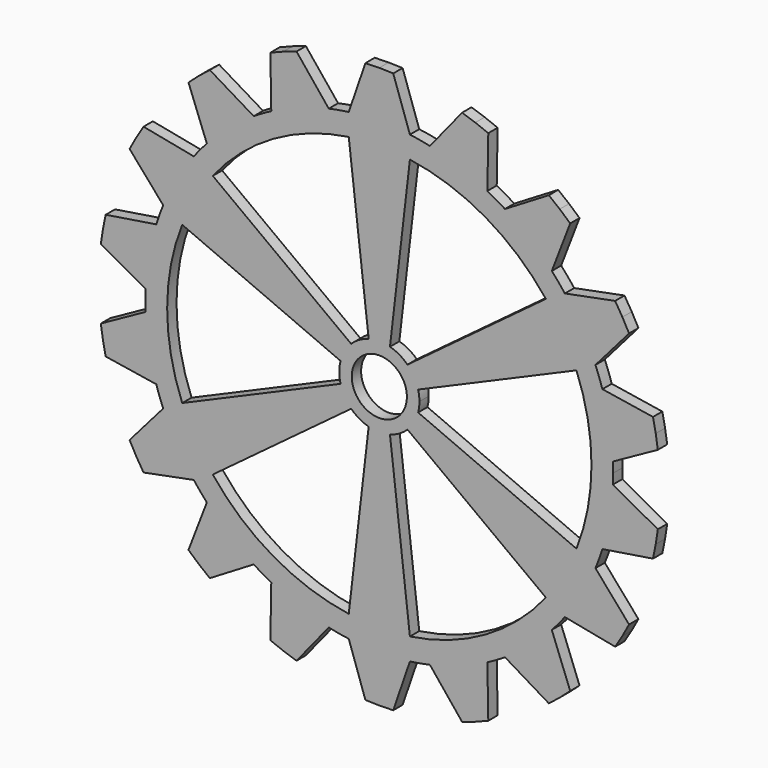
from build123d import *

# Parameters (mm, degrees)
F0_R     = 7.485066
F1_DEPTH = 3.175


with BuildPart() as f1:
    # F0 (on Front) → F1 (new body)
    with BuildSketch(Plane.XZ):
        with BuildLine():
            ThreePointArc((63.440218, -2.754768), (63.485053, -1.377708), (63.5, 0))
            ThreePointArc((63.5, 0), (63.485053, 1.377708), (63.440218, 2.754768))
            ThreePointArc((63.440218, 2.754768), (62.535292, 11.026659), (60.556491, 19.109197))
            ThreePointArc((60.556491, 19.109197), (59.670481, 21.718279), (58.672119, 24.286468))
            ThreePointArc((58.672119, 24.286468), (54.992613, 31.75), (50.368757, 38.668311))
            ThreePointArc((50.368757, 38.668311), (48.643822, 40.817013), (46.827296, 42.888861))
            ThreePointArc((46.827296, 42.888861), (40.817013, 48.643822), (34.105808, 53.563456))
            ThreePointArc((34.105808, 53.563456), (31.75, 54.992613), (29.33441, 56.318224))
            ThreePointArc((29.33441, 56.318224), (21.718279, 59.670481), (13.729195, 61.998058))
            ThreePointArc((13.729195, 61.998058), (11.026659, 62.535292), (8.303361, 62.954779))
            ThreePointArc((8.303361, 62.954779), (0, 63.5), (-8.303361, 62.954779))
            ThreePointArc((-8.303361, 62.954779), (-11.026659, 62.535292), (-13.729195, 61.998058))
            ThreePointArc((-13.729195, 61.998058), (-21.718279, 59.670481), (-29.33441, 56.318224))
            ThreePointArc((-29.33441, 56.318224), (-31.75, 54.992613), (-34.105808, 53.563456))
            ThreePointArc((-34.105808, 53.563456), (-40.817013, 48.643822), (-46.827296, 42.888861))
            ThreePointArc((-46.827296, 42.888861), (-48.643822, 40.817013), (-50.368757, 38.668311))
            ThreePointArc((-50.368757, 38.668311), (-54.992613, 31.75), (-58.672119, 24.286468))
            ThreePointArc((-58.672119, 24.286468), (-59.670481, 21.718279), (-60.556491, 19.109197))
            ThreePointArc((-60.556491, 19.109197), (-62.535292, 11.026659), (-63.440218, 2.754768))
            ThreePointArc((-63.440218, 2.754768), (-63.5, 0), (-63.440218, -2.754768))
            ThreePointArc((-63.440218, -2.754768), (-62.535292, -11.026659), (-60.556491, -19.109197))
            ThreePointArc((-60.556491, -19.109197), (-59.670481, -21.718279), (-58.672119, -24.286468))
            ThreePointArc((-58.672119, -24.286468), (-54.992613, -31.75), (-50.368757, -38.668311))
            ThreePointArc((-50.368757, -38.668311), (-48.643822, -40.817013), (-46.827296, -42.888861))
            ThreePointArc((-46.827296, -42.888861), (-40.817013, -48.643822), (-34.105808, -53.563456))
            ThreePointArc((-34.105808, -53.563456), (-31.75, -54.992613), (-29.33441, -56.318224))
            ThreePointArc((-29.33441, -56.318224), (-21.718279, -59.670481), (-13.729195, -61.998058))
            ThreePointArc((-13.729195, -61.998058), (-11.026659, -62.535292), (-8.303361, -62.954779))
            ThreePointArc((-8.303361, -62.954779), (0, -63.5), (8.303361, -62.954779))
            ThreePointArc((8.303361, -62.954779), (11.026659, -62.535292), (13.729195, -61.998058))
            ThreePointArc((13.729195, -61.998058), (21.718279, -59.670481), (29.33441, -56.318224))
            ThreePointArc((29.33441, -56.318224), (31.75, -54.992613), (34.105808, -53.563456))
            ThreePointArc((34.105808, -53.563456), (40.817013, -48.643822), (46.827296, -42.888861))
            ThreePointArc((46.827296, -42.888861), (48.643822, -40.817013), (50.368757, -38.668311))
            ThreePointArc((50.368757, -38.668311), (54.992613, -31.75), (58.672119, -24.286468))
            ThreePointArc((58.672119, -24.286468), (59.670481, -21.718279), (60.556491, -19.109197))
            ThreePointArc((60.556491, -19.109197), (62.535292, -11.026659), (63.440218, -2.754768))
        make_face()
        with BuildLine():
            ThreePointArc((45.211563, 35.690804), (49.884258, 28.80069), (53.514925, 21.30896))
            ThreePointArc((53.514925, 21.30896), (56.570542, 10.848628), (57.60138, 0))
            ThreePointArc((57.60138, 0), (56.570542, -10.848628), (53.514925, -21.30896))
            ThreePointArc((53.514925, -21.30896), (49.884258, -28.80069), (45.211563, -35.690804))
            ThreePointArc((45.211563, -35.690804), (28.80069, -49.884258), (8.303361, -56.999765))
            ThreePointArc((8.303361, -56.999765), (0, -57.60138), (-8.303361, -56.999765))
            ThreePointArc((-8.303361, -56.999765), (-28.80069, -49.884258), (-45.211563, -35.690804))
            ThreePointArc((-45.211563, -35.690804), (-49.884258, -28.80069), (-53.514925, -21.30896))
            ThreePointArc((-53.514925, -21.30896), (-57.60138, 0), (-53.514925, 21.30896))
            ThreePointArc((-53.514925, 21.30896), (-49.884258, 28.80069), (-45.211563, 35.690804))
            ThreePointArc((-45.211563, 35.690804), (-28.80069, 49.884258), (-8.303361, 56.999765))
            ThreePointArc((-8.303361, 56.999765), (0, 57.60138), (8.303361, 56.999765))
            ThreePointArc((8.303361, 56.999765), (28.80069, 49.884258), (45.211563, 35.690804))
        make_face(mode=Mode.SUBTRACT)
        with BuildLine():
            ThreePointArc((60.556491, 19.109197), (62.535292, 11.026659), (63.440218, 2.754768))
            Line((63.440218, 2.754768), (75.606443, 9.492404))
            Line((75.606443, 9.492404), (75.042351, 13.231991))
            Line((75.042351, 13.231991), (74.29341, 16.938985))
            Line((74.29341, 16.938985), (60.556491, 19.109197))
        make_face()
        with BuildLine():
            Line((75.606443, -9.492404), (63.440218, -2.754768))
            ThreePointArc((63.440218, -2.754768), (62.535292, -11.026659), (60.556491, -19.109197))
            Line((60.556491, -19.109197), (74.29341, -16.938985))
            Line((74.29341, -16.938985), (75.042351, -13.231991))
            Line((75.042351, -13.231991), (75.606443, -9.492404))
        make_face()
        with BuildLine():
            ThreePointArc((50.368757, 38.668311), (54.992613, 31.75), (58.672119, 24.286468))
            Line((58.672119, 24.286468), (67.800224, 34.778868))
            Line((67.800224, 34.778868), (65.991136, 38.1))
            Line((65.991136, 38.1), (64.019495, 41.327282))
            Line((64.019495, 41.327282), (50.368757, 38.668311))
        make_face()
        with BuildLine():
            Line((67.800224, -34.778868), (58.672119, -24.286468))
            ThreePointArc((58.672119, -24.286468), (54.992613, -31.75), (50.368757, -38.668311))
            Line((50.368757, -38.668311), (64.019495, -41.327282))
            Line((64.019495, -41.327282), (65.991136, -38.1))
            Line((65.991136, -38.1), (67.800224, -34.778868))
        make_face()
        with BuildLine():
            ThreePointArc((34.105808, 53.563456), (40.817013, 48.643822), (46.827296, 42.888861))
            Line((46.827296, 42.888861), (51.816296, 55.870488))
            Line((51.816296, 55.870488), (48.980416, 58.372587))
            Line((48.980416, 58.372587), (46.023884, 60.730899))
            Line((46.023884, 60.730899), (34.105808, 53.563456))
        make_face()
        with BuildLine():
            Line((51.816296, -55.870488), (46.827296, -42.888861))
            ThreePointArc((46.827296, -42.888861), (40.817013, -48.643822), (34.105808, -53.563456))
            Line((34.105808, -53.563456), (46.023884, -60.730899))
            Line((46.023884, -60.730899), (48.980416, -58.372587))
            Line((48.980416, -58.372587), (51.816296, -55.870488))
        make_face()
        with BuildLine():
            ThreePointArc((13.729195, 61.998058), (21.718279, 59.670481), (29.33441, 56.318224))
            Line((29.33441, 56.318224), (29.582559, 70.223302))
            Line((29.582559, 70.223302), (26.061935, 71.604578))
            Line((26.061935, 71.604578), (22.477114, 72.809473))
            Line((22.477114, 72.809473), (13.729195, 61.998058))
        make_face()
        with BuildLine():
            Line((29.582559, -70.223302), (29.33441, -56.318224))
            ThreePointArc((29.33441, -56.318224), (21.718279, -59.670481), (13.729195, -61.998058))
            Line((13.729195, -61.998058), (22.477114, -72.809473))
            Line((22.477114, -72.809473), (26.061935, -71.604578))
            Line((26.061935, -71.604578), (29.582559, -70.223302))
        make_face()
        with BuildLine():
            ThreePointArc((-8.303361, 62.954779), (0, 63.5), (8.303361, 62.954779))
            Line((8.303361, 62.954779), (3.780728, 76.10615))
            Line((3.780728, 76.10615), (0, 76.2))
            Line((0, 76.2), (-3.780728, 76.10615))
            Line((-3.780728, 76.10615), (-8.303361, 62.954779))
        make_face()
        with BuildLine():
            Line((3.780728, -76.10615), (8.303361, -62.954779))
            ThreePointArc((8.303361, -62.954779), (0, -63.5), (-8.303361, -62.954779))
            Line((-8.303361, -62.954779), (-3.780728, -76.10615))
            Line((-3.780728, -76.10615), (0, -76.2))
            Line((0, -76.2), (3.780728, -76.10615))
        make_face()
        with BuildLine():
            ThreePointArc((-29.33441, 56.318224), (-21.718279, 59.670481), (-13.729195, 61.998058))
            Line((-13.729195, 61.998058), (-22.477114, 72.809473))
            Line((-22.477114, 72.809473), (-26.061935, 71.604578))
            Line((-26.061935, 71.604578), (-29.582559, 70.223302))
            Line((-29.582559, 70.223302), (-29.33441, 56.318224))
        make_face()
        with BuildLine():
            Line((-22.477114, -72.809473), (-13.729195, -61.998058))
            ThreePointArc((-13.729195, -61.998058), (-21.718279, -59.670481), (-29.33441, -56.318224))
            Line((-29.33441, -56.318224), (-29.582559, -70.223302))
            Line((-29.582559, -70.223302), (-26.061935, -71.604578))
            Line((-26.061935, -71.604578), (-22.477114, -72.809473))
        make_face()
        with BuildLine():
            ThreePointArc((-46.827296, 42.888861), (-40.817013, 48.643822), (-34.105808, 53.563456))
            Line((-34.105808, 53.563456), (-46.023884, 60.730899))
            Line((-46.023884, 60.730899), (-48.980416, 58.372587))
            Line((-48.980416, 58.372587), (-51.816296, 55.870488))
            Line((-51.816296, 55.870488), (-46.827296, 42.888861))
        make_face()
        with BuildLine():
            Line((-46.023884, -60.730899), (-34.105808, -53.563456))
            ThreePointArc((-34.105808, -53.563456), (-40.817013, -48.643822), (-46.827296, -42.888861))
            Line((-46.827296, -42.888861), (-51.816296, -55.870488))
            Line((-51.816296, -55.870488), (-48.980416, -58.372587))
            Line((-48.980416, -58.372587), (-46.023884, -60.730899))
        make_face()
        with BuildLine():
            ThreePointArc((-58.672119, 24.286468), (-54.992613, 31.75), (-50.368757, 38.668311))
            Line((-50.368757, 38.668311), (-64.019495, 41.327282))
            Line((-64.019495, 41.327282), (-65.991136, 38.1))
            Line((-65.991136, 38.1), (-67.800224, 34.778868))
            Line((-67.800224, 34.778868), (-58.672119, 24.286468))
        make_face()
        with BuildLine():
            Line((-64.019495, -41.327282), (-50.368757, -38.668311))
            ThreePointArc((-50.368757, -38.668311), (-54.992613, -31.75), (-58.672119, -24.286468))
            Line((-58.672119, -24.286468), (-67.800224, -34.778868))
            Line((-67.800224, -34.778868), (-65.991136, -38.1))
            Line((-65.991136, -38.1), (-64.019495, -41.327282))
        make_face()
        with BuildLine():
            ThreePointArc((-63.440218, 2.754768), (-62.535292, 11.026659), (-60.556491, 19.109197))
            Line((-60.556491, 19.109197), (-74.29341, 16.938985))
            Line((-74.29341, 16.938985), (-75.042351, 13.231991))
            Line((-75.042351, 13.231991), (-75.606443, 9.492404))
            Line((-75.606443, 9.492404), (-63.440218, 2.754768))
        make_face()
        with BuildLine():
            Line((-74.29341, -16.938985), (-60.556491, -19.109197))
            ThreePointArc((-60.556491, -19.109197), (-62.535292, -11.026659), (-63.440218, -2.754768))
            Line((-63.440218, -2.754768), (-75.606443, -9.492404))
            Line((-75.606443, -9.492404), (-75.042351, -13.231991))
            Line((-75.042351, -13.231991), (-74.29341, -16.938985))
        make_face()
        with BuildLine():
            ThreePointArc((-2.893492, 10.488725), (0, 10.880516), (2.893492, 10.488725))
            Line((2.893492, 10.488725), (8.303361, 56.999765))
            ThreePointArc((8.303361, 56.999765), (0, 57.60138), (-8.303361, 56.999765))
            Line((-8.303361, 56.999765), (-2.893492, 10.488725))
        make_face()
        with BuildLine():
            ThreePointArc((7.636756, 7.7502), (9.422804, 5.440258), (10.530248, 2.738525))
            Line((10.530248, 2.738525), (53.514925, 21.30896))
            ThreePointArc((53.514925, 21.30896), (49.884258, 28.80069), (45.211563, 35.690804))
            Line((45.211563, 35.690804), (7.636756, 7.7502))
        make_face()
        with BuildLine():
            Line((53.514925, -21.30896), (10.530248, -2.738525))
            ThreePointArc((10.530248, -2.738525), (9.422804, -5.440258), (7.636756, -7.7502))
            Line((7.636756, -7.7502), (45.211563, -35.690804))
            ThreePointArc((45.211563, -35.690804), (49.884258, -28.80069), (53.514925, -21.30896))
        make_face()
        with BuildLine():
            Line((8.303361, -56.999765), (2.893492, -10.488725))
            ThreePointArc((2.893492, -10.488725), (0, -10.880516), (-2.893492, -10.488725))
            Line((-2.893492, -10.488725), (-8.303361, -56.999765))
            ThreePointArc((-8.303361, -56.999765), (0, -57.60138), (8.303361, -56.999765))
        make_face()
        with BuildLine():
            Line((-45.211563, -35.690804), (-7.636756, -7.7502))
            ThreePointArc((-7.636756, -7.7502), (-9.422804, -5.440258), (-10.530248, -2.738525))
            Line((-10.530248, -2.738525), (-53.514925, -21.30896))
            ThreePointArc((-53.514925, -21.30896), (-49.884258, -28.80069), (-45.211563, -35.690804))
        make_face()
        with BuildLine():
            ThreePointArc((-10.530248, 2.738525), (-9.422804, 5.440258), (-7.636756, 7.7502))
            Line((-7.636756, 7.7502), (-45.211563, 35.690804))
            ThreePointArc((-45.211563, 35.690804), (-49.884258, 28.80069), (-53.514925, 21.30896))
            Line((-53.514925, 21.30896), (-10.530248, 2.738525))
        make_face()
        with BuildLine():
            ThreePointArc((10.530248, -2.738525), (10.792594, -1.380417), (10.880516, 0))
            ThreePointArc((10.880516, 0), (10.792594, 1.380417), (10.530248, 2.738525))
            ThreePointArc((10.530248, 2.738525), (9.422804, 5.440258), (7.636756, 7.7502))
            ThreePointArc((7.636756, 7.7502), (5.440258, 9.422804), (2.893492, 10.488725))
            ThreePointArc((2.893492, 10.488725), (0, 10.880516), (-2.893492, 10.488725))
            ThreePointArc((-2.893492, 10.488725), (-5.440258, 9.422804), (-7.636756, 7.7502))
            ThreePointArc((-7.636756, 7.7502), (-9.422804, 5.440258), (-10.530248, 2.738525))
            ThreePointArc((-10.530248, 2.738525), (-10.880516, 0), (-10.530248, -2.738525))
            ThreePointArc((-10.530248, -2.738525), (-9.422804, -5.440258), (-7.636756, -7.7502))
            ThreePointArc((-7.636756, -7.7502), (-5.440258, -9.422804), (-2.893492, -10.488725))
            ThreePointArc((-2.893492, -10.488725), (0, -10.880516), (2.893492, -10.488725))
            ThreePointArc((2.893492, -10.488725), (5.440258, -9.422804), (7.636756, -7.7502))
            ThreePointArc((7.636756, -7.7502), (9.422804, -5.440258), (10.530248, -2.738525))
        make_face()
        Circle(F0_R, mode=Mode.SUBTRACT)
    extrude(amount=F1_DEPTH)


solid = f1.part
